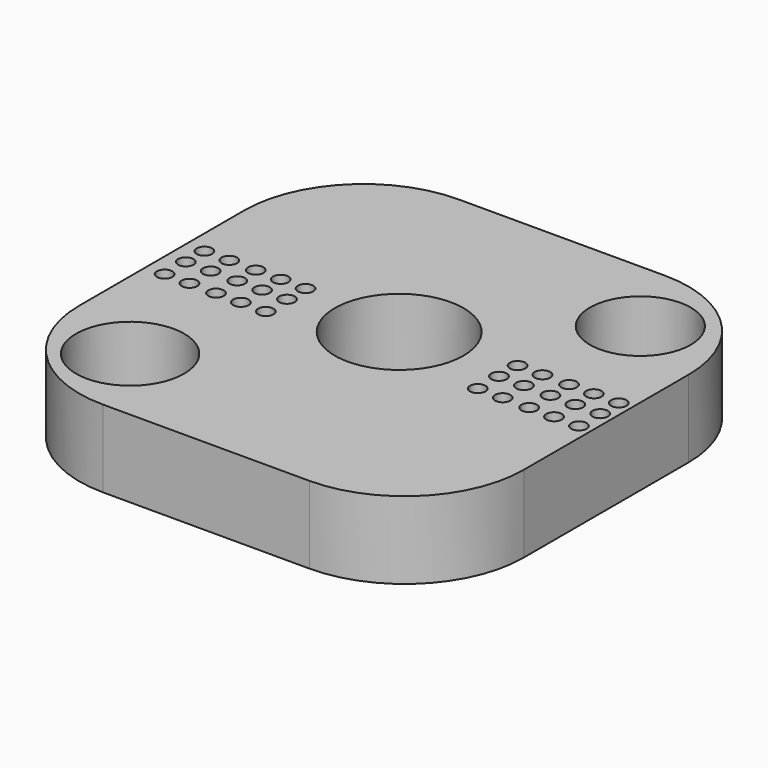
from build123d import *

# Parameters (mm, degrees)
SKETCH_R     = 25
SKETCH_R_2   = 21
SKETCH_R_3   = 19.584537
SKETCH_R_4   = 3
PAD_DEPTH    = 30
PAD001_DEPTH = 30


with BuildPart() as part:
    # Sketch → Pad (new body)
    with BuildSketch(Plane.XY):
        with BuildLine():
            Line((-35.584206, -63.111127), (44.415794, -63.111127))
            ThreePointArc((44.415794, -63.111127), (77.13309, -49.55918), (90.685038, -16.841884))
            Line((90.685038, -16.841884), (90.685038, 63.158116))
            ThreePointArc((90.685038, 63.158116), (77.13309, 95.875412), (44.415794, 109.427359))
            Line((44.415794, 109.427359), (-35.584206, 109.427359))
            ThreePointArc((-35.584206, 109.427359), (-68.301501, 95.875412), (-81.853449, 63.158116))
            Line((-81.853449, 63.158116), (-81.853449, -16.841884))
            ThreePointArc((-81.853449, -16.841884), (-68.301501, -49.55918), (-35.584206, -63.111127))
        make_face()
        with Locations((4.62833, 30.241158)):
            Circle(SKETCH_R, mode=Mode.SUBTRACT)
        with Locations((-50.106209, -31.898642)):
            Circle(SKETCH_R_2, mode=Mode.SUBTRACT)
        with Locations((59.362869, 78.858307)):
            Circle(SKETCH_R_3, mode=Mode.SUBTRACT)
        with Locations((-74.575775, 34.748711)):
            Circle(SKETCH_R_4, mode=Mode.SUBTRACT)
        with Locations((-64.916733, 34.748711)):
            Circle(SKETCH_R_4, mode=Mode.SUBTRACT)
        with Locations((-54.613762, 34.748711)):
            Circle(SKETCH_R_4, mode=Mode.SUBTRACT)
        with Locations((-44.95472, 34.748711)):
            Circle(SKETCH_R_4, mode=Mode.SUBTRACT)
        with Locations((-35.295681, 34.748711)):
            Circle(SKETCH_R_4, mode=Mode.SUBTRACT)
        with Locations((-74.575775, 25.733604)):
            Circle(SKETCH_R_4, mode=Mode.SUBTRACT)
        with Locations((-64.916733, 25.733604)):
            Circle(SKETCH_R_4, mode=Mode.SUBTRACT)
        with Locations((-54.613762, 25.733604)):
            Circle(SKETCH_R_4, mode=Mode.SUBTRACT)
        with Locations((-44.95472, 25.733604)):
            Circle(SKETCH_R_4, mode=Mode.SUBTRACT)
        with Locations((-35.295681, 25.733604)):
            Circle(SKETCH_R_4, mode=Mode.SUBTRACT)
        with Locations((-74.575775, 15.430638)):
            Circle(SKETCH_R_4, mode=Mode.SUBTRACT)
        with Locations((-64.916733, 15.430638)):
            Circle(SKETCH_R_4, mode=Mode.SUBTRACT)
        with Locations((-54.613762, 15.430638)):
            Circle(SKETCH_R_4, mode=Mode.SUBTRACT)
        with Locations((-44.95472, 15.430638)):
            Circle(SKETCH_R_4, mode=Mode.SUBTRACT)
        with Locations((-35.295681, 15.430638)):
            Circle(SKETCH_R_4, mode=Mode.SUBTRACT)
        with Locations((46.484135, 35.392643)):
            Circle(SKETCH_R_4, mode=Mode.SUBTRACT)
        with Locations((56.143177, 35.392643)):
            Circle(SKETCH_R_4, mode=Mode.SUBTRACT)
        with Locations((66.446148, 35.392643)):
            Circle(SKETCH_R_4, mode=Mode.SUBTRACT)
        with Locations((76.10519, 35.392643)):
            Circle(SKETCH_R_4, mode=Mode.SUBTRACT)
        with Locations((85.764229, 35.392643)):
            Circle(SKETCH_R_4, mode=Mode.SUBTRACT)
        with Locations((46.484135, 26.377536)):
            Circle(SKETCH_R_4, mode=Mode.SUBTRACT)
        with Locations((56.143177, 26.377536)):
            Circle(SKETCH_R_4, mode=Mode.SUBTRACT)
        with Locations((66.446148, 26.377536)):
            Circle(SKETCH_R_4, mode=Mode.SUBTRACT)
        with Locations((76.10519, 26.377536)):
            Circle(SKETCH_R_4, mode=Mode.SUBTRACT)
        with Locations((85.764229, 26.377536)):
            Circle(SKETCH_R_4, mode=Mode.SUBTRACT)
        with Locations((46.484135, 16.07457)):
            Circle(SKETCH_R_4, mode=Mode.SUBTRACT)
        with Locations((56.143177, 16.07457)):
            Circle(SKETCH_R_4, mode=Mode.SUBTRACT)
        with Locations((66.446148, 16.07457)):
            Circle(SKETCH_R_4, mode=Mode.SUBTRACT)
        with Locations((76.10519, 16.07457)):
            Circle(SKETCH_R_4, mode=Mode.SUBTRACT)
        with Locations((85.764229, 16.07457)):
            Circle(SKETCH_R_4, mode=Mode.SUBTRACT)
    extrude(amount=PAD_DEPTH)

    # Sketch → Pad001 (join)
    with BuildSketch(Plane.XY):
        with BuildLine():
            Line((-35.584206, -63.111127), (44.415794, -63.111127))
            ThreePointArc((44.415794, -63.111127), (77.13309, -49.55918), (90.685038, -16.841884))
            Line((90.685038, -16.841884), (90.685038, 63.158116))
            ThreePointArc((90.685038, 63.158116), (77.13309, 95.875412), (44.415794, 109.427359))
            Line((44.415794, 109.427359), (-35.584206, 109.427359))
            ThreePointArc((-35.584206, 109.427359), (-68.301501, 95.875412), (-81.853449, 63.158116))
            Line((-81.853449, 63.158116), (-81.853449, -16.841884))
            ThreePointArc((-81.853449, -16.841884), (-68.301501, -49.55918), (-35.584206, -63.111127))
        make_face()
        with Locations((4.62833, 30.241158)):
            Circle(SKETCH_R, mode=Mode.SUBTRACT)
        with Locations((-50.106209, -31.898642)):
            Circle(SKETCH_R_2, mode=Mode.SUBTRACT)
        with Locations((59.362869, 78.858307)):
            Circle(SKETCH_R_3, mode=Mode.SUBTRACT)
        with Locations((-74.575775, 34.748711)):
            Circle(SKETCH_R_4, mode=Mode.SUBTRACT)
        with Locations((-64.916733, 34.748711)):
            Circle(SKETCH_R_4, mode=Mode.SUBTRACT)
        with Locations((-54.613762, 34.748711)):
            Circle(SKETCH_R_4, mode=Mode.SUBTRACT)
        with Locations((-44.95472, 34.748711)):
            Circle(SKETCH_R_4, mode=Mode.SUBTRACT)
        with Locations((-35.295681, 34.748711)):
            Circle(SKETCH_R_4, mode=Mode.SUBTRACT)
        with Locations((-74.575775, 25.733604)):
            Circle(SKETCH_R_4, mode=Mode.SUBTRACT)
        with Locations((-64.916733, 25.733604)):
            Circle(SKETCH_R_4, mode=Mode.SUBTRACT)
        with Locations((-54.613762, 25.733604)):
            Circle(SKETCH_R_4, mode=Mode.SUBTRACT)
        with Locations((-44.95472, 25.733604)):
            Circle(SKETCH_R_4, mode=Mode.SUBTRACT)
        with Locations((-35.295681, 25.733604)):
            Circle(SKETCH_R_4, mode=Mode.SUBTRACT)
        with Locations((-74.575775, 15.430638)):
            Circle(SKETCH_R_4, mode=Mode.SUBTRACT)
        with Locations((-64.916733, 15.430638)):
            Circle(SKETCH_R_4, mode=Mode.SUBTRACT)
        with Locations((-54.613762, 15.430638)):
            Circle(SKETCH_R_4, mode=Mode.SUBTRACT)
        with Locations((-44.95472, 15.430638)):
            Circle(SKETCH_R_4, mode=Mode.SUBTRACT)
        with Locations((-35.295681, 15.430638)):
            Circle(SKETCH_R_4, mode=Mode.SUBTRACT)
        with Locations((46.484135, 35.392643)):
            Circle(SKETCH_R_4, mode=Mode.SUBTRACT)
        with Locations((56.143177, 35.392643)):
            Circle(SKETCH_R_4, mode=Mode.SUBTRACT)
        with Locations((66.446148, 35.392643)):
            Circle(SKETCH_R_4, mode=Mode.SUBTRACT)
        with Locations((76.10519, 35.392643)):
            Circle(SKETCH_R_4, mode=Mode.SUBTRACT)
        with Locations((85.764229, 35.392643)):
            Circle(SKETCH_R_4, mode=Mode.SUBTRACT)
        with Locations((46.484135, 26.377536)):
            Circle(SKETCH_R_4, mode=Mode.SUBTRACT)
        with Locations((56.143177, 26.377536)):
            Circle(SKETCH_R_4, mode=Mode.SUBTRACT)
        with Locations((66.446148, 26.377536)):
            Circle(SKETCH_R_4, mode=Mode.SUBTRACT)
        with Locations((76.10519, 26.377536)):
            Circle(SKETCH_R_4, mode=Mode.SUBTRACT)
        with Locations((85.764229, 26.377536)):
            Circle(SKETCH_R_4, mode=Mode.SUBTRACT)
        with Locations((46.484135, 16.07457)):
            Circle(SKETCH_R_4, mode=Mode.SUBTRACT)
        with Locations((56.143177, 16.07457)):
            Circle(SKETCH_R_4, mode=Mode.SUBTRACT)
        with Locations((66.446148, 16.07457)):
            Circle(SKETCH_R_4, mode=Mode.SUBTRACT)
        with Locations((76.10519, 16.07457)):
            Circle(SKETCH_R_4, mode=Mode.SUBTRACT)
        with Locations((85.764229, 16.07457)):
            Circle(SKETCH_R_4, mode=Mode.SUBTRACT)
    extrude(amount=PAD001_DEPTH)


solid = part.part
